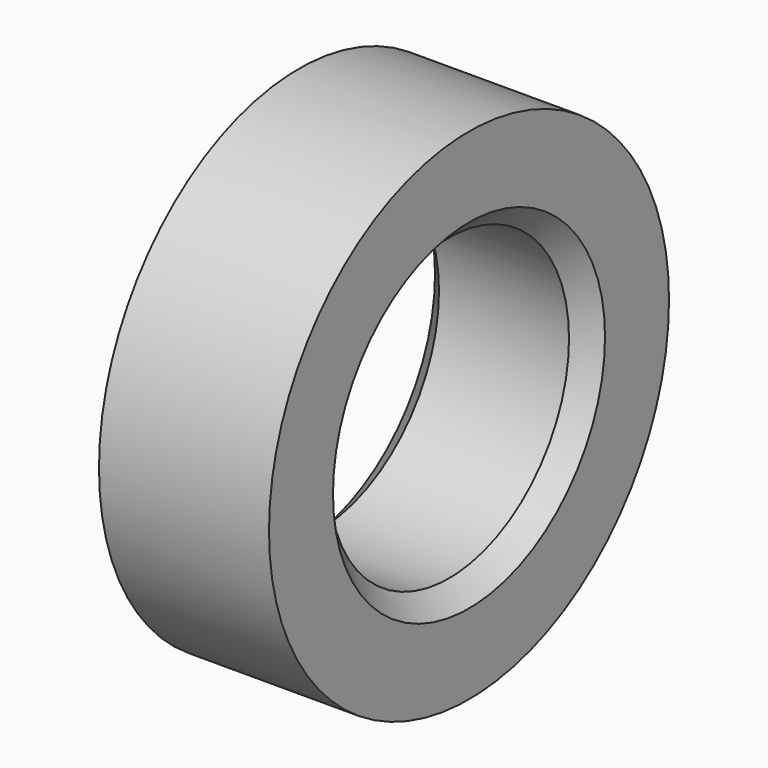
from build123d import *

# Parameters (mm, degrees)
F0_R     = 2.5
F0_R_2   = 1.5
F1_DEPTH = 1.7
F2_SIZE  = 0.2


with BuildPart() as f1:
    # F0 (on Right) → F1 (new body)
    with BuildSketch(Plane.YZ):
        Circle(F0_R)
        Circle(F0_R_2, mode=Mode.SUBTRACT)
    extrude(amount=F1_DEPTH)

    # F2
    f2_edges = [f1.edges().sort_by_distance(p)[0] for p in [
        (0.85, 1.5, 0),
        (0, -1.5, 0),
        (1.7, -1.5, 0),
    ]]
    chamfer(f2_edges, length=F2_SIZE)


solid = f1.part
